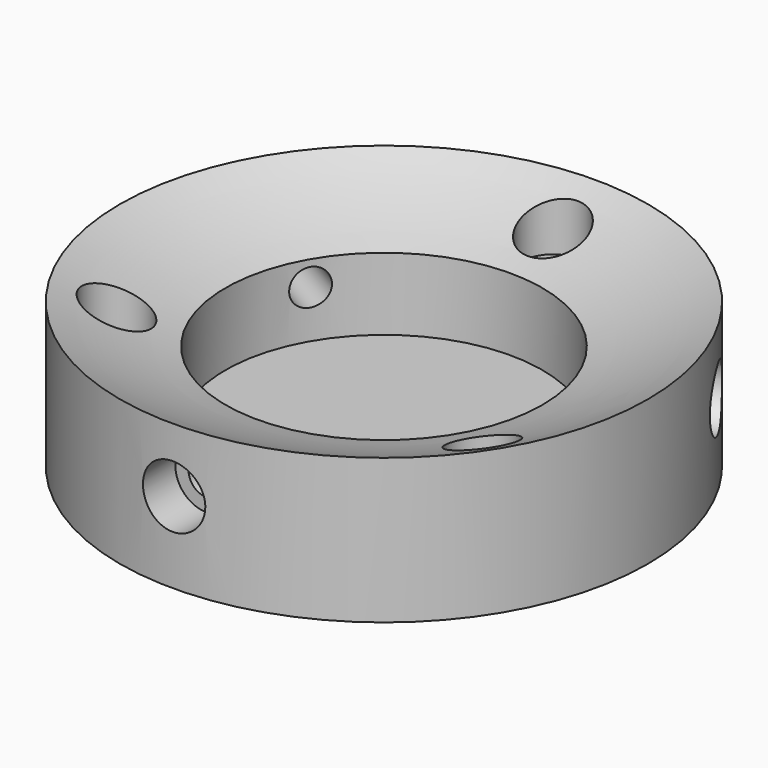
from build123d import *

# Parameters (mm, degrees)
SKETCH001_R        = 1.7
POCKET_DEPTH       = 157.778767
SKETCH002_R        = 2.95
POCKET001_DEPTH    = 6
SKETCH003_R        = 1.7
POCKET002_DEPTH    = 169.059555
SKETCH004_R        = 2.95
POCKET003_DEPTH    = 4
POLARPATTERN_COUNT = 3


with BuildPart() as part:
    # Sketch → Revolution (revolve)
    with BuildSketch(Plane.XZ):
        with BuildLine():
            Line((15, 9.990992), (15, 3.15))
            Line((15, 3.15), (0, 3.15))
            Line((0, 3.15), (0, 0))
            Line((0, 0), (25, 0))
            Line((25, 0), (25, 13.719212))
            ThreePointArc((15, 9.990992), (20.086685, 11.622592), (25, 13.719212))
        make_face()
    revolve(axis=Axis((0, 0, 0), (0, 0, 1)))

    # Sketch001 (on Face3 of Revolution) → Pocket (cut, through all)
    with BuildSketch(Plane(origin=(0, 0, 0), x_dir=(1, 0, 0), z_dir=(0, 0, -1))):
        with Locations((0, -20)):
            Circle(SKETCH001_R)
    pocket = extrude(amount=-POCKET_DEPTH, mode=Mode.SUBTRACT)

    # Sketch002 (on DatumPlane) → Pocket001 (cut)
    with BuildSketch(Plane.XY.offset(14)):
        with Locations((0, 20)):
            Circle(SKETCH002_R)
    pocket001 = extrude(amount=-POCKET001_DEPTH, mode=Mode.SUBTRACT)

    # Sketch003 → Pocket002 (cut, through all)
    with BuildSketch(Plane.XZ):
        with Locations((0, 7.65)):
            Circle(SKETCH003_R)
    pocket002 = extrude(amount=POCKET002_DEPTH, mode=Mode.SUBTRACT)

    # Sketch004 (on DatumPlane) → Pocket003 (cut)
    with BuildSketch(Plane.XZ.offset(25)):
        with Locations((0, 7.65)):
            Circle(SKETCH004_R)
    pocket003 = extrude(amount=-POCKET003_DEPTH, mode=Mode.SUBTRACT)

    # PolarPattern: Pocket, Pocket001, Pocket002, Pocket003 ×3 about axis
    polarpattern_axis = Axis((0, 0, 0), (0, 0, -1))
    for i in range(1, POLARPATTERN_COUNT):
        add(pocket.rotate(polarpattern_axis, i * 360 / POLARPATTERN_COUNT), mode=Mode.SUBTRACT)
        add(pocket001.rotate(polarpattern_axis, i * 360 / POLARPATTERN_COUNT), mode=Mode.SUBTRACT)
        add(pocket002.rotate(polarpattern_axis, i * 360 / POLARPATTERN_COUNT), mode=Mode.SUBTRACT)
        add(pocket003.rotate(polarpattern_axis, i * 360 / POLARPATTERN_COUNT), mode=Mode.SUBTRACT)


solid = part.part
